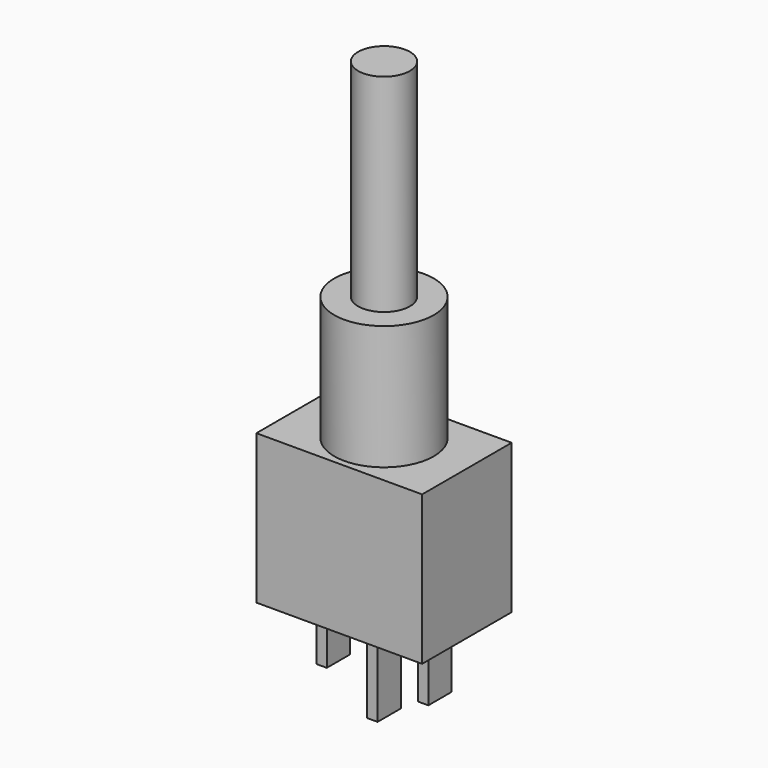
from build123d import *

# Parameters (mm, degrees)
F0_W     = 8
F0_H     = 7.2
F1_DEPTH = 5.4
F2_R     = 2.4
F3_DEPTH = 6
F4_R     = 1.25
F5_DEPTH = 10
F6_W     = 0.5
F6_H     = 1.4
F7_DEPTH = 3
F8_W     = 0.5
F8_H     = 1.4
F9_DEPTH = 4.5


with BuildPart() as f1:
    # F0 (on Front) → F1 (new body)
    with BuildSketch(Plane.XZ):
        with Locations((4, 3.6)):
            Rectangle(F0_W, F0_H)
    extrude(amount=F1_DEPTH)

    # F2 (on face) → F3 (join)
    with BuildSketch(Plane.XY.offset(7.2)):
        with Locations((4, -2.7)):
            Circle(F2_R)
    extrude(amount=F3_DEPTH)

    # F4 (on face) → F5 (join)
    with BuildSketch(Plane.XY.offset(13.2)):
        with Locations((4, -2.7)):
            Circle(F4_R)
    extrude(amount=F5_DEPTH)

    # F6 (on face) → F7 (join)
    with BuildSketch(Plane(origin=(0, 0, 0), x_dir=(1, 0, 0), z_dir=(0, 0, -1))):
        with Locations((1.55, 2.7)):
            Rectangle(F6_W, F6_H)
        with Locations((6.45, 2.7)):
            Rectangle(F6_W, F6_H)
    extrude(amount=F7_DEPTH)

    # F8 (on face) → F9 (join)
    with BuildSketch(Plane(origin=(0, 0, 0), x_dir=(1, 0, 0), z_dir=(0, 0, -1))):
        with Locations((4, 2.7)):
            Rectangle(F8_W, F8_H)
    extrude(amount=F9_DEPTH)


solid = f1.part
